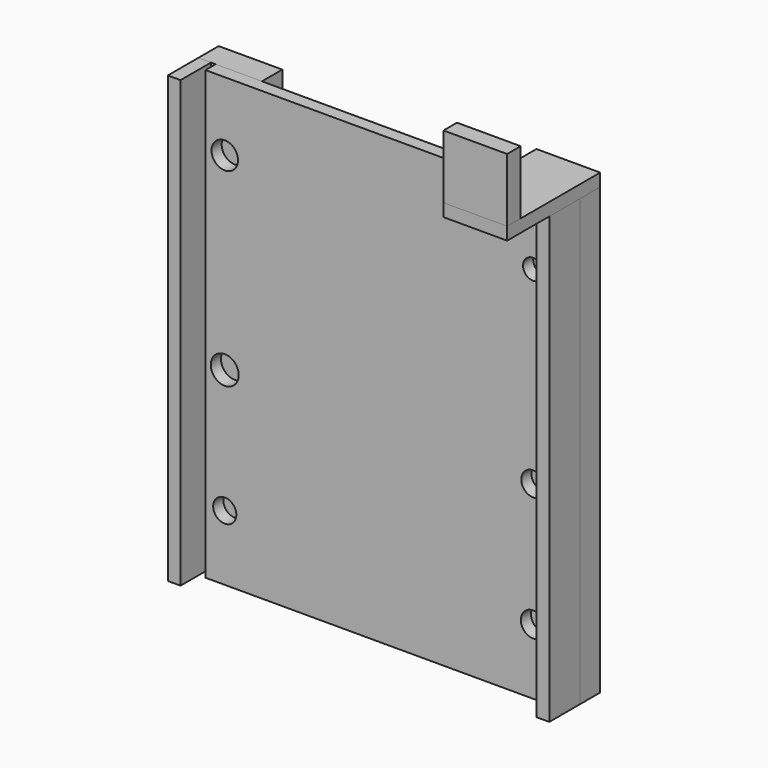
from build123d import *

# Parameters (mm, degrees)
F0_W     = 1.27
F0_H     = 44.45
F1_DEPTH = 6.35
F0_W_2   = 5.08
F2_DEPTH = 2.54
F3_W     = 34.725336
F3_H     = 44.633469
F3_R     = 1.154262
F3_R_2   = 1.395496
F3_R_3   = 1.237767
F3_R_4   = 1.191646
F3_R_5   = 1.325115
F3_R_6   = 1.012659
F4_DEPTH = 1.27
F5_W     = 6.35
F5_H     = 2.54
F6_DEPTH = 1.27
F7_W     = 6.364727
F7_H     = 1.689253
F8_DEPTH = 6.35


with BuildPart() as f1:
    # F0 (on Front) → F1 (new body)
    with BuildSketch(Plane.XZ):
        with Locations((-18.415, 15.875)):
            Rectangle(F0_W, F0_H)
        with Locations((18.415, 15.875)):
            Rectangle(F0_W, F0_H)
    extrude(amount=F1_DEPTH)


with BuildPart() as f2:
    # F0 (on Front) → F2 (new body)
    with BuildSketch(Plane.XZ):
        with Locations((-18.415, 15.875)):
            Rectangle(F0_W, F0_H)
        with Locations((-15.24, 15.875)):
            Rectangle(F0_W_2, F0_H)
        with Locations((15.24, 15.875)):
            Rectangle(F0_W_2, F0_H)
        with Locations((18.415, 15.875)):
            Rectangle(F0_W, F0_H)
    extrude(amount=F2_DEPTH)


with BuildPart() as f4:
    # F3 (on face) → F4 (new body)
    with BuildSketch(Plane.XZ.offset(2.54)):
        with Locations((0.034808, 15.783266)):
            Rectangle(F3_W, F3_H)
        with Locations((-15.396533, 0)):
            Circle(F3_R, mode=Mode.SUBTRACT)
        with Locations((-15.396533, 12.361701)):
            Circle(F3_R_2, mode=Mode.SUBTRACT)
        with Locations((15.406683, 0)):
            Circle(F3_R_3, mode=Mode.SUBTRACT)
        with Locations((15.406683, 12.361701)):
            Circle(F3_R_4, mode=Mode.SUBTRACT)
        with Locations((-15.396533, 31.228127)):
            Circle(F3_R_5, mode=Mode.SUBTRACT)
        with Locations((15.406683, 31.228127)):
            Circle(F3_R_6, mode=Mode.SUBTRACT)
    extrude(amount=F4_DEPTH)


with BuildPart() as f6:
    # F5 (on face) → F6 (new body)
    with BuildSketch(Plane.XY.offset(38.1)):
        Polygon((12.7, -2.54), (12.7, 0), (12.685273, 0), (12.685273, -11.608644), (19.05, -11.608644), (19.05, -2.54), align=None)
        with Locations((15.875, -1.27)):
            Rectangle(F5_W, F5_H)
    extrude(amount=F6_DEPTH)

    # F7 (on face) → F8 (join)
    with BuildSketch(Plane.XY.offset(39.37)):
        with Locations((15.867636, -10.764017)):
            Rectangle(F7_W, F7_H)
    extrude(amount=F8_DEPTH)


solid = Compound([f1.part, f2.part, f4.part, f6.part])
